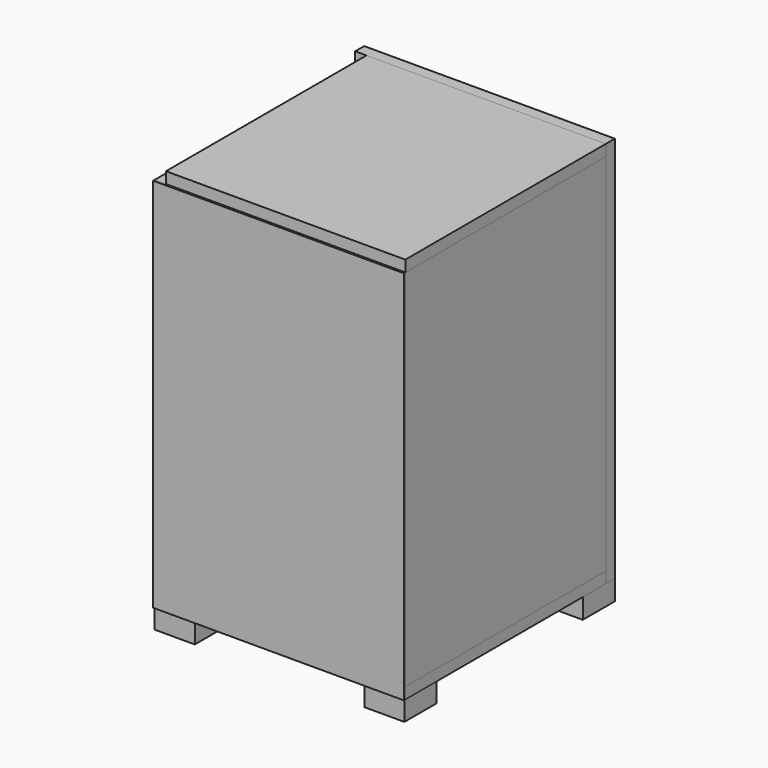
from build123d import *

# Parameters (mm, degrees)
F0_W      = 200
F0_H      = 300
F1_DEPTH  = 1.5
F2_W      = 9
F2_H      = 300
F3_DEPTH  = 200
F5_DEPTH  = 12
F7_DEPTH  = 182
F8_W      = 27.4480059743
F8_H      = 12.2530327478
F9_DEPTH  = 5
F10_W     = 200
F10_H     = 200
F11_DEPTH = 9
F12_W     = 200
F12_H     = 291
F13_DEPTH = 9
F15_DEPTH = 9
F16_W     = 200
F16_H     = 309
F17_DEPTH = 9
F18_W     = 32
F18_H     = 32
F19_DEPTH = 16
F20_W     = 32
F20_H     = 32
F21_DEPTH = 16
F22_W     = 32
F22_H     = 32
F23_DEPTH = 16
F24_W     = 32
F24_H     = 32
F25_DEPTH = 16
F26_R     = 35.1963697209
F27_DEPTH = 9


with BuildPart() as f1:
    # F0 (on Front) → F1 (new body)
    with BuildSketch(Plane.XZ):
        with Locations((100, 150)):
            Rectangle(F0_W, F0_H)
        with Locations((100, 150)):
            Rectangle(F0_W, F0_H)
    extrude(amount=F1_DEPTH)


with BuildPart() as f3:
    # F2 (on face) → F3 (new body)
    with BuildSketch(Plane(origin=(0, 0, 0), x_dir=(-1, 0, 0), z_dir=(0, 1, 0))):
        with Locations((-4.5, 150)):
            Rectangle(F2_W, F2_H)
    extrude(amount=F3_DEPTH)


with BuildPart() as f5:
    # F4 (on face) → F5 (new body)
    with BuildSketch(Plane.YZ.offset(9)):
        Polygon((19.8321547359, 107.6303049922), (0, 120.6161677837), (0, 85.3688195348), align=None)
    extrude(amount=F5_DEPTH)


with BuildPart() as f7:
    # F6 (on face) → F7 (new body)
    with BuildSketch(Plane.YZ.offset(9)):
        Polygon((0, 120.6161677837), (19.8321547359, 107.6303049922), (22.1375450676, 111.151122863), (2.3053903316, 124.1369856545), align=None)
    extrude(amount=F7_DEPTH)


with BuildPart() as f9:
    # F8 (on face) → F9 (new body)
    with BuildSketch(Plane(origin=(0, 57.5832075724, 87.9417179358), x_dir=(1, 0, 0), z_dir=(0, 0.5478013947, 0.8366084102))):
        with Locations((102.3163087666, -48.4948001187)):
            Rectangle(F8_W, F8_H)
    extrude(amount=F9_DEPTH)


with BuildPart() as f11:
    # F10 (on face) → F11 (new body)
    with BuildSketch(Plane(origin=(0, 0, 0), x_dir=(1, 0, 0), z_dir=(0, 0, -1))):
        with Locations((100, -100)):
            Rectangle(F10_W, F10_H)
    extrude(amount=-F11_DEPTH)

    # F20 (on face) → F21 (join)
    with BuildSketch(Plane(origin=(0, 0, 0), x_dir=(1, 0, 0), z_dir=(0, 0, -1))):
        with Locations((183.2620132922, -16)):
            Rectangle(F20_W, F20_H)
    extrude(amount=F21_DEPTH)


with BuildPart() as f13:
    # F12 (on face) → F13 (new body)
    with BuildSketch(Plane.YZ.offset(200)):
        with Locations((100, 154.5)):
            Rectangle(F12_W, F12_H)
    extrude(amount=-F13_DEPTH)


with BuildPart() as f15:
    # F14 (on face) → F15 (new body)
    with BuildSketch(Plane.XY.offset(300)):
        Polygon((9, 200), (9, 0), (200, 0), (200, 200.1701496304), (0, 200.1701496304), (0, 200), align=None)
    extrude(amount=F15_DEPTH)


with BuildPart() as f17:
    # F16 (on face) → F17 (new body)
    with BuildSketch(Plane(origin=(0, 200, 0), x_dir=(-1, 0, 0), z_dir=(0, 1, 0))):
        with Locations((-100, 154.5)):
            Rectangle(F16_W, F16_H)
    extrude(amount=F17_DEPTH)

    # F26 (on face) → F27 (cut)
    with BuildSketch(Plane(origin=(0, 209, 0), x_dir=(-1, 0, 0), z_dir=(0, 1, 0))):
        with Locations((-127.4318397045, 64.6535977721)):
            Circle(F26_R)
    extrude(amount=-F27_DEPTH, mode=Mode.SUBTRACT)


with BuildPart() as f19:
    # F18 (on face) → F19 (new body)
    with BuildSketch(Plane(origin=(0, 0, 0), x_dir=(1, 0, 0), z_dir=(0, 0, -1))):
        with Locations((16, -16)):
            Rectangle(F18_W, F18_H)
    extrude(amount=F19_DEPTH)


with BuildPart() as f23:
    # F22 (on face) → F23 (new body)
    with BuildSketch(Plane(origin=(0, 0, 0), x_dir=(1, 0, 0), z_dir=(0, 0, -1))):
        with Locations((16, -193)):
            Rectangle(F22_W, F22_H)
    extrude(amount=F23_DEPTH)


with BuildPart() as f25:
    # F24 (on face) → F25 (new body)
    with BuildSketch(Plane(origin=(0, 0, 0), x_dir=(1, 0, 0), z_dir=(0, 0, -1))):
        with Locations((184, -193)):
            Rectangle(F24_W, F24_H)
    extrude(amount=F25_DEPTH)


solid = Compound([f1.part, f3.part, f5.part, f7.part, f9.part, f11.part, f13.part, f15.part, f17.part, f19.part, f23.part, f25.part])
